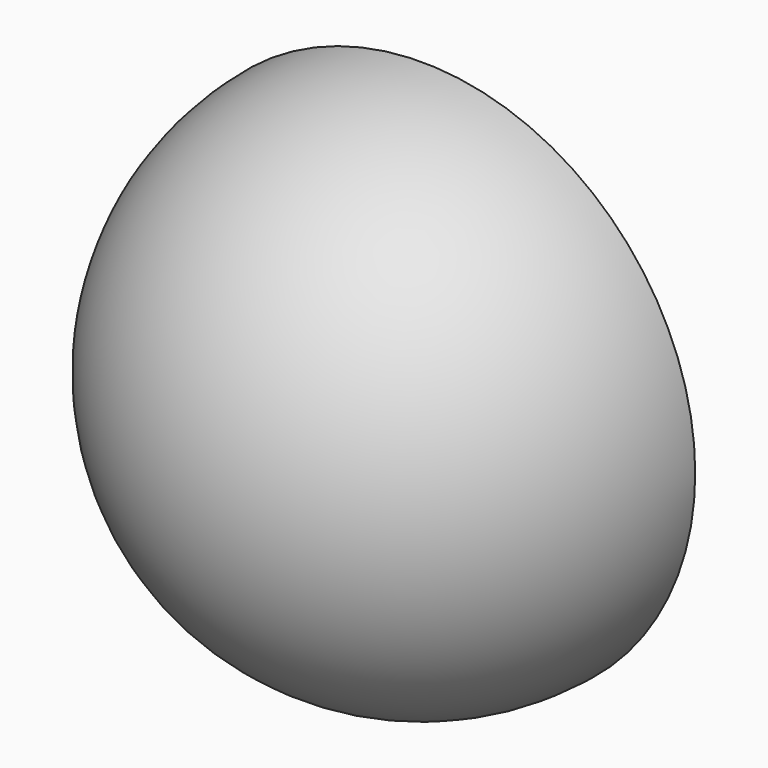
from build123d import *

# Parameters (mm, degrees)
F4_W     = 60
F4_H     = 60
F5_DEPTH = 30
F6_W     = 150
F6_H     = 150
F7_DEPTH = 65.75
F8_R     = 3
F9_DEPTH = 7
F10_R    = 1


with BuildPart() as f3:
    # F0 (on Front) → F3 (revolve)
    with BuildSketch(Plane.XZ):
        with BuildLine():
            Line((-40, 0), (-50, 0))
            ThreePointArc((-50, 0), (0, -50), (50, 0))
            Line((50, 0), (40, 0))
            ThreePointArc((40, 0), (0, -40), (-40, 0))
        make_face()
    revolve(axis=Axis((0.232987, 0, 0), (1, 0, 0)))

    # F4 (on Front) → F5 (cut)
    with BuildSketch(Plane.XZ):
        Rectangle(F4_W, F4_H)
    extrude(amount=-F5_DEPTH, mode=Mode.SUBTRACT)

    # F6 (on Front) → F7 (cut)
    with BuildSketch(Plane.XZ):
        Rectangle(F6_W, F6_H)
    extrude(amount=-F7_DEPTH, mode=Mode.SUBTRACT)

    # F8 (on face) → F9 (cut)
    with BuildSketch(Plane(origin=(0, 0, 0), x_dir=(-1, 0, 0), z_dir=(0, 1, 0))):
        with Locations((45, 0)):
            Circle(F8_R)
        with Locations((-45, 0)):
            Circle(F8_R)
        with Locations((0, -45)):
            Circle(F8_R)
        with Locations((0, 45)):
            Circle(F8_R)
    extrude(amount=-F9_DEPTH, mode=Mode.SUBTRACT)

    # F10
    f10_edges = [f3.edges().sort_by_distance(p)[0] for p in [
        (48, 0, 0),
        (48, -7, 0),
        (3, 0, 45),
        (3, -7, 45),
        (-42, 0, 0),
        (-42, -7, 0),
        (3, 0, -45),
        (3, -7, -45),
    ]]
    fillet(f10_edges, radius=F10_R)


solid = f3.part
